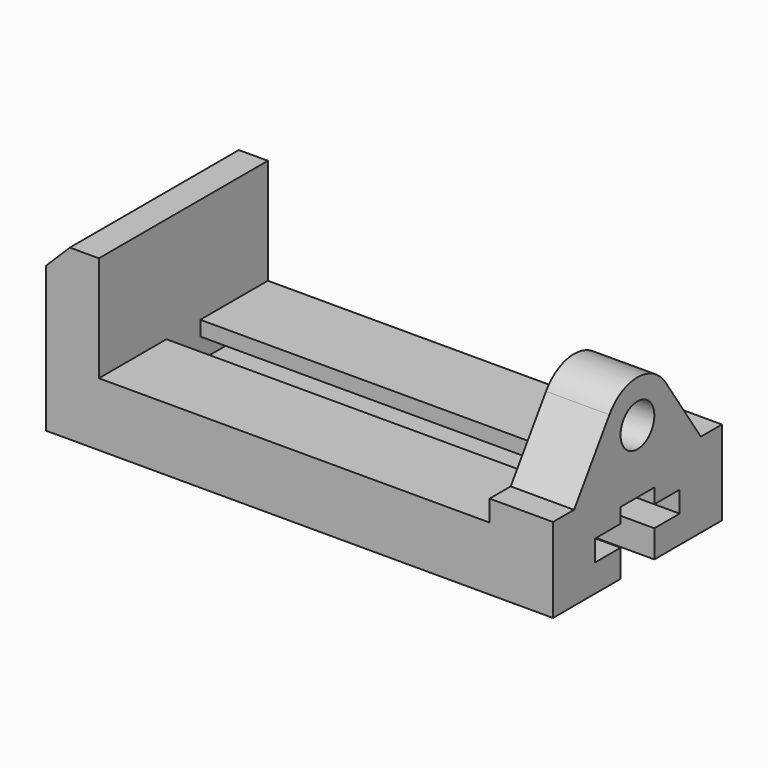
from build123d import *

# Parameters (mm, degrees)
F1_DEPTH = 63.5
F2_SIZE  = 14.2875
F3_R     = 12.7
F4_DEPTH = 38.1
F5_DEPTH = 273.05


with BuildPart() as f1:
    # F0 (on Front) → F1 (new body, symmetric)
    with BuildSketch(Plane.XZ):
        Polygon((-304.8, 0), (0, 0), (0, 50.8), (-38.1, 50.8), (-38.1, 38.1), (-273.05, 38.1), (-273.05, 101.6), (-304.8, 101.6), align=None)
    extrude(amount=F1_DEPTH, both=True)

    # F2
    f2_edges = [f1.edges().sort_by_distance(p)[0] for p in [
        (-304.8, 0, 101.6),
    ]]
    chamfer(f2_edges, length=F2_SIZE)

    # F3 (on Right) → F4 (join)
    with BuildSketch(Plane.YZ):
        with BuildLine():
            Line((-21.093426, 90.350173), (-47.625, 50.8))
            Line((-47.625, 50.8), (47.625, 50.8))
            Line((47.625, 50.8), (21.093426, 90.350173))
            ThreePointArc((21.093426, 90.350173), (0, 101.6), (-21.093426, 90.350173))
        make_face()
        with Locations((0, 76.2)):
            Circle(F3_R, mode=Mode.SUBTRACT)
    extrude(amount=-F4_DEPTH)

    # F3 (on Right) → F5 (cut)
    with BuildSketch(Plane.YZ):
        Polygon((-12.7, 16.51), (-12.7, 0), (12.7, 0), (12.7, 16.51), (31.75, 16.51), (31.75, 29.21), (12.7, 29.21), (12.7, 38.1), (-12.7, 38.1), (-12.7, 29.21), (-31.75, 29.21), (-31.75, 16.51), align=None)
    extrude(amount=-F5_DEPTH, mode=Mode.SUBTRACT)


solid = f1.part
